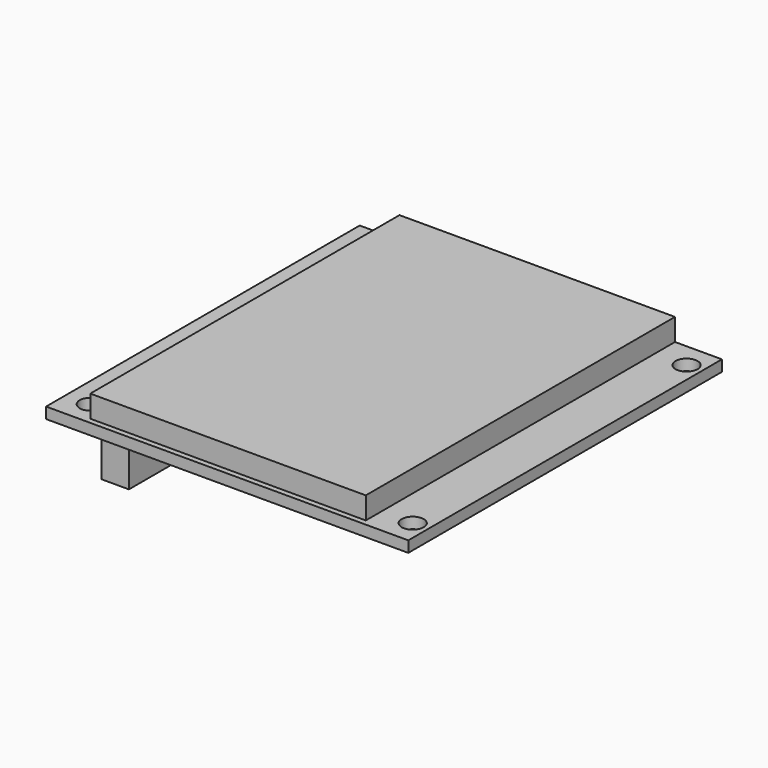
from build123d import *

# Parameters (mm, degrees)
F0_R     = 2
F0_W     = 5
F0_H     = 51
F0_W_2   = 49.9
F0_H_2   = 70
F1_DEPTH = 2
F2_DEPTH = 6
F3_DEPTH = 13


with BuildPart() as f1:
    # F0 (on Top) → F1 (new body)
    with BuildSketch(Plane.XY):
        Polygon((-25.6, 35.5), (-32.8, 35.5), (-32.8, -35.5), (32.8, -35.5), (32.8, 35.5), (24.3, 35.5), (24.3, -34.5), (-25.6, -34.5), align=None)
        with Locations((-28.3, -31)):
            Circle(F0_R, mode=Mode.SUBTRACT)
        with Locations((30, -31)):
            Circle(F0_R, mode=Mode.SUBTRACT)
        with Locations((-28.3, 0)):
            Rectangle(F0_W, F0_H, mode=Mode.SUBTRACT)
        with Locations((-28.3, 31)):
            Circle(F0_R, mode=Mode.SUBTRACT)
        with Locations((30, 31)):
            Circle(F0_R, mode=Mode.SUBTRACT)
        with Locations((-0.65, 0.5)):
            Rectangle(F0_W_2, F0_H_2)
        with Locations((-28.3, 0)):
            Rectangle(F0_W, F0_H)
    extrude(amount=F1_DEPTH)

    # F0 (on Top) → F2 (join)
    with BuildSketch(Plane.XY):
        with Locations((-0.65, 0.5)):
            Rectangle(F0_W_2, F0_H_2)
    extrude(amount=F2_DEPTH)

    # F0 (on Top) → F3 (join)
    with BuildSketch(Plane.XY):
        with Locations((-28.3, 0)):
            Rectangle(F0_W, F0_H)
    extrude(amount=-F3_DEPTH)


solid = f1.part
